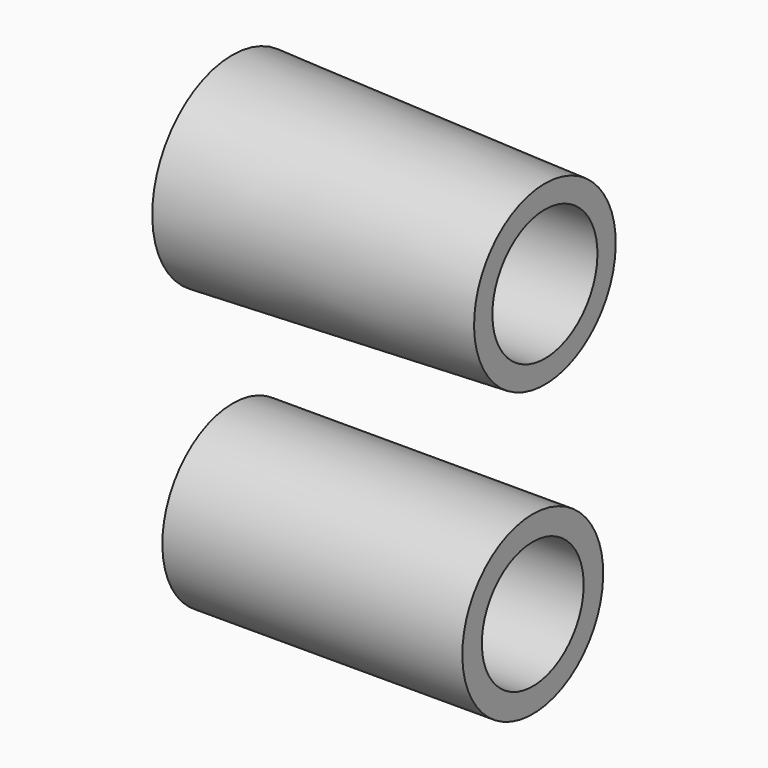
from build123d import *

# Parameters (mm, degrees)
F2_W = 42.349783
F2_H = 3.445031


with BuildPart() as f1:
    # F0 (on Front) → F1 (revolve)
    with BuildSketch(Plane.XZ):
        Polygon((-22.078544, 14.094415), (-22.078544, 9.27), (22.078544, 9.27), (22.078544, 12.5), align=None)
    revolve(axis=Axis((1.050762, 0, 0), (1, 0, 0)))


with BuildPart() as f3:
    # F2 (on Front) → F3 (revolve)
    with BuildSketch(Plane.XZ):
        with Locations((-0.810957, -30.868536)):
            Rectangle(F2_W, F2_H)
    revolve(axis=Axis((6.369181, 0, -41.574765), (1, 0, 0)))


with BuildPart() as f4_1:
    # F4: copy of F3
    add(f3.part)


solid = Compound([f1.part, f3.part, f4_1.part])
